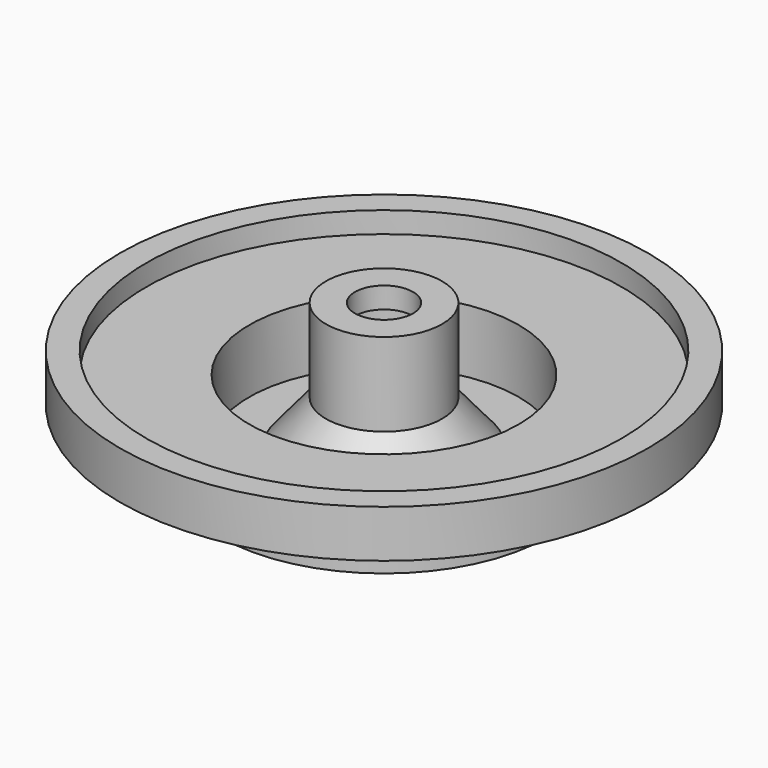
from build123d import *


with BuildPart() as f1:
    # F0 (on Front) → F1 (revolve)
    with BuildSketch(Plane.XZ):
        Polygon((8.45, 0), (15.5, 0), (15.5, 6), (25, 6), (25, 10.5), (22.5, 10.5), (22.5, 8.5), (12.75, 8.5), (12.75, 2.5), (8.95, 2.5), (5.5, 6.61155), (5.5, 8.5), (5.5, 10.5), (5.5, 14.5), (2.75, 14.5), (2.75, 12.5), (4, 12.5), (4, 5.303303), align=None)
    revolve(axis=Axis((0, 0, 2.742161), (0, 0, -1)))


solid = f1.part
